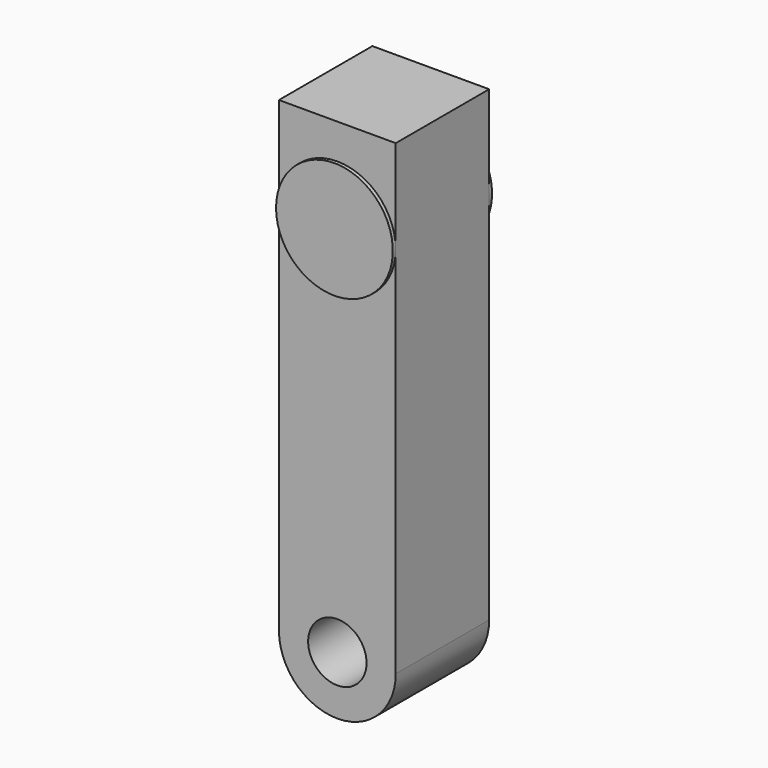
from build123d import *

# Parameters (mm, degrees)
F1_DEPTH = 1.5875
F2_DEPTH = 1.6863590572


with BuildPart() as f1:
    # F0 (on Front) → F1 (new body, symmetric)
    with BuildSketch(Plane.XZ):
        with BuildLine():
            Line((-1.5875, 10.16), (-1.5875, 0))
            Line((-1.5875, 0), (-0.79375, 0))
            ThreePointArc((-0.79375, 0), (0, 0.79375), (0.79375, 0))
            Line((0.79375, 0), (1.5875, 0))
            Line((1.5875, 0), (1.5875, 10.16))
            ThreePointArc((1.5875, 10.16), (0, 8.5725), (-1.5875, 10.16))
        make_face()
        with BuildLine():
            ThreePointArc((1.5875, 10.16), (0, 11.7475), (-1.5875, 10.16))
            ThreePointArc((-1.5875, 10.16), (0, 8.5725), (1.5875, 10.16))
        make_face()
        with BuildLine():
            Line((-1.5875, 12.7), (-1.5875, 10.16))
            ThreePointArc((-1.5875, 10.16), (0, 11.7475), (1.5875, 10.16))
            Line((1.5875, 10.16), (1.5875, 12.7))
            Line((1.5875, 12.7), (-1.5875, 12.7))
        make_face()
        with BuildLine():
            Line((-0.79375, 0), (-1.5875, 0))
            ThreePointArc((-1.5875, 0), (0, -1.5875), (1.5875, 0))
            Line((1.5875, 0), (0.79375, 0))
            ThreePointArc((0.79375, 0), (0, -0.79375), (-0.79375, 0))
        make_face()
    extrude(amount=F1_DEPTH, both=True)

    # F0 (on Front) → F2 (join, symmetric)
    with BuildSketch(Plane.XZ):
        with BuildLine():
            ThreePointArc((1.5875, 10.16), (0, 11.7475), (-1.5875, 10.16))
            ThreePointArc((-1.5875, 10.16), (0, 8.5725), (1.5875, 10.16))
        make_face()
    extrude(amount=F2_DEPTH, both=True)


solid = f1.part
